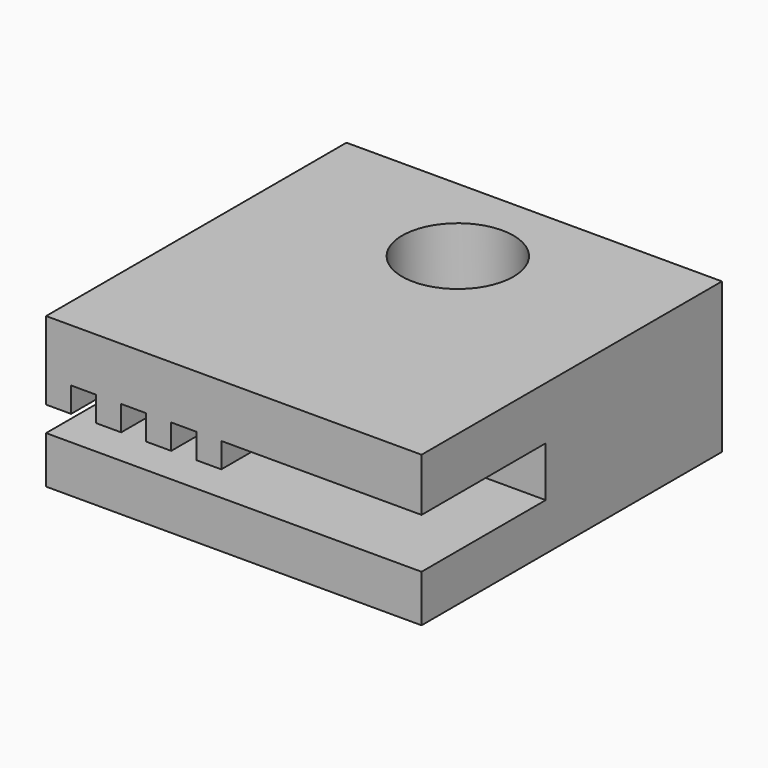
from build123d import *

# Parameters (mm, degrees)
F0_W     = 15
F0_H     = 15
F1_DEPTH = 6
F3_DEPTH = 6.2
F4_R     = 2.223391
F5_DEPTH = 25


with BuildPart() as f1:
    # F0 (on Top) → F1 (new body)
    with BuildSketch(Plane.XY):
        with Locations((13.635715, 2.612354)):
            Rectangle(F0_W, F0_H)
    extrude(amount=F1_DEPTH)

    # F2 (on face) → F3 (cut)
    with BuildSketch(Plane.XZ.offset(4.887646)):
        Polygon((6.135715, 2.883776), (6.135715, 1.883776), (21.135715, 1.883776), (21.135715, 3.883776), (14.135715, 3.883776), (13.135715, 3.883776), (13.135715, 2.883776), (12.135715, 2.883776), (12.135715, 3.883776), (11.135715, 3.883776), (11.135715, 2.883776), (10.135715, 2.883776), (10.135715, 3.883776), (9.135715, 3.883776), (9.135715, 2.883776), (8.135715, 2.883776), (8.135715, 3.883776), (7.135715, 3.883776), (7.135715, 2.883776), align=None)
    extrude(amount=-F3_DEPTH, mode=Mode.SUBTRACT)

    # F4 (on face) → F5 (cut)
    with BuildSketch(Plane(origin=(0, 0, 0), x_dir=(1, 0, 0), z_dir=(0, 0, -1))):
        with Locations((13.635715, -6.298021)):
            Circle(F4_R)
    extrude(amount=-F5_DEPTH, mode=Mode.SUBTRACT)


solid = f1.part
